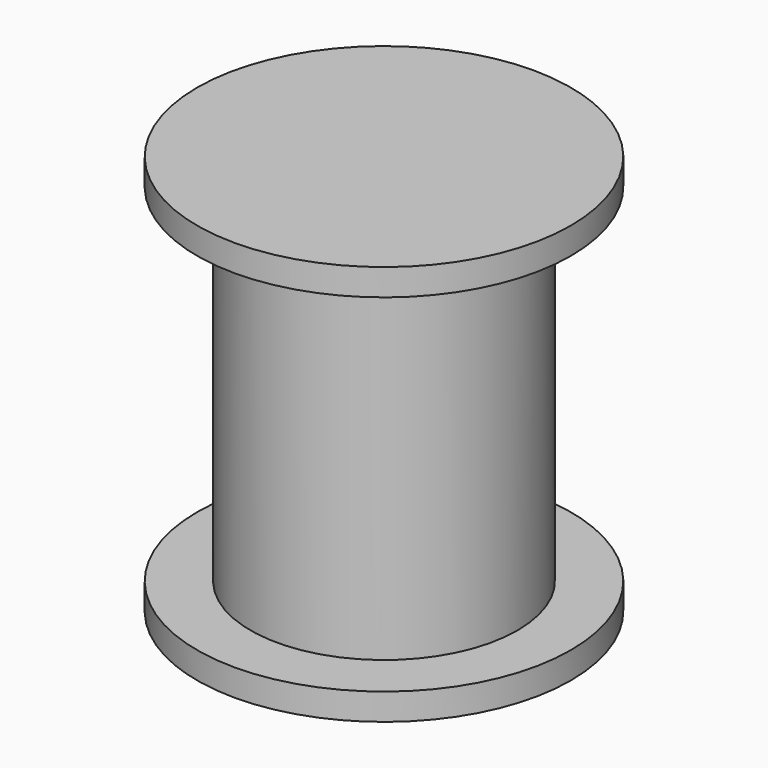
from build123d import *

# Parameters (mm, degrees)
F0_R     = 5
F1_DEPTH = 15
F2_R     = 7
F2_R_2   = 2.75
F3_DEPTH = 1
F4_R     = 7
F5_DEPTH = 1


with BuildPart() as f1:
    # F0 (on Top) → F1 (new body)
    with BuildSketch(Plane.XY):
        Circle(F0_R)
    extrude(amount=F1_DEPTH)

    # F2 (on Top) → F3 (join)
    with BuildSketch(Plane.XY):
        Circle(F2_R)
        Circle(F2_R_2, mode=Mode.SUBTRACT)
    extrude(amount=F3_DEPTH)

    # F4 (on face) → F5 (join)
    with BuildSketch(Plane.XY.offset(15)):
        Circle(F4_R)
    extrude(amount=-F5_DEPTH)


solid = f1.part
